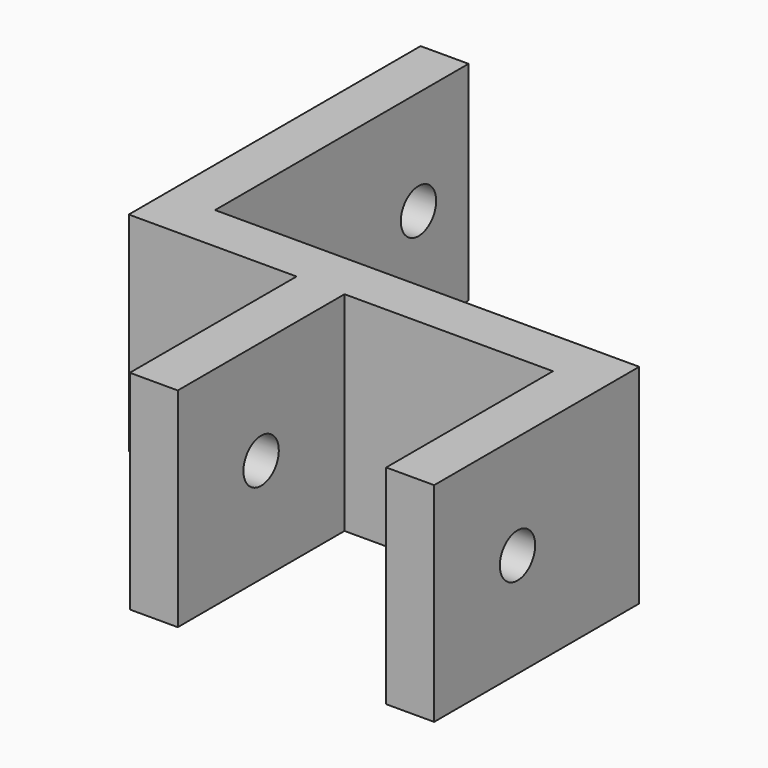
from build123d import *

# Parameters (mm, degrees)
F1_DEPTH      = 10
F2_R          = 2.12
F3_DEPTH      = 4.601
F3_DEPTH_BACK = 40.701


with BuildPart() as f1:
    # F0 (on Top) → F1 (new body, symmetric)
    with BuildSketch(Plane.XY):
        Polygon((20, 0), (24.6, 0), (24.6, 24.6), (-16.1, 24.6), (-16.1, 55), (-20.7, 55), (-20.7, 20), (-4.6, 20), (-4.6, 0), (0, 0), (0, 20), (20, 20), align=None)
    extrude(amount=F1_DEPTH, both=True)

    # F2 (on face) → F3 (cut, two sides)
    with BuildSketch(Plane.YZ.offset(-16.1)) as f3_sk:
        with Locations((49, 0)):
            Circle(F2_R)
        with Locations((10, 0)):
            Circle(F2_R)
    extrude(amount=-F3_DEPTH, mode=Mode.SUBTRACT)
    extrude(f3_sk.sketch, amount=F3_DEPTH_BACK, mode=Mode.SUBTRACT)


solid = f1.part
